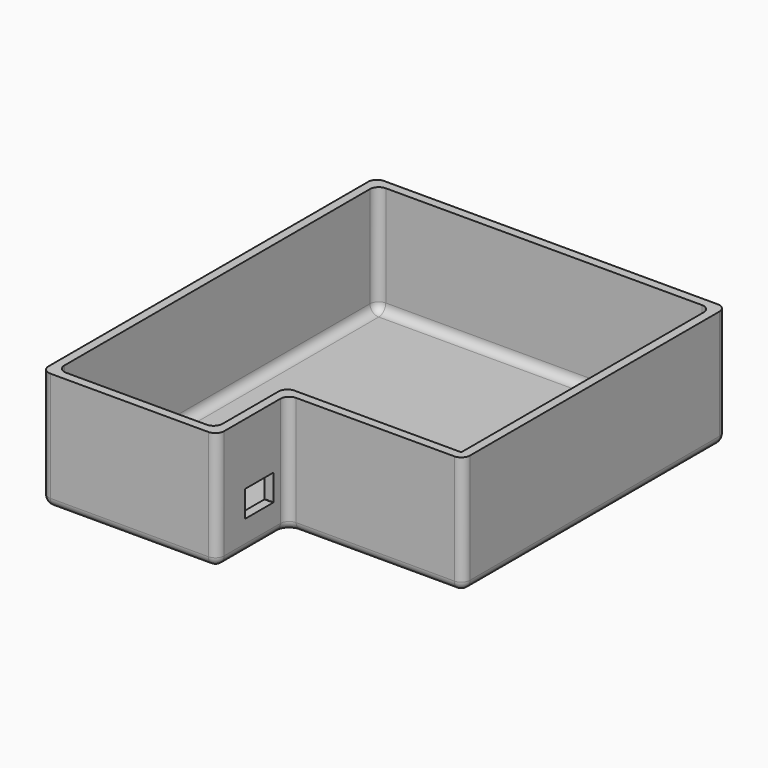
from build123d import *

# Parameters (mm, degrees)
F1_DEPTH = 34.29
F3_DEPTH = 31.75
F4_W     = 10.16
F4_H     = 7.62
F5_DEPTH = 2.54
F6_R     = 0.127
F7_R     = 2.54


with BuildPart() as f1:
    # F0 (on Top) → F1 (new body)
    with BuildSketch(Plane.XY):
        Polygon((50.8, 60.325), (-50.8, 60.325), (-50.8, -60.325), (0, -60.325), (0, -34.925), (50.8, -34.925), align=None)
    extrude(amount=F1_DEPTH)

    # F2 (on face) → F3 (cut)
    with BuildSketch(Plane.XY.offset(34.29)):
        Polygon((48.26, -32.385), (48.26, 57.785), (-48.26, 57.785), (-48.26, -57.785), (-2.54, -57.785), (-2.54, -32.385), align=None)
    extrude(amount=-F3_DEPTH, mode=Mode.SUBTRACT)

    # F4 (on face) → F5 (cut, through all)
    with BuildSketch(Plane.YZ):
        with Locations((-45.085, 12.7)):
            Rectangle(F4_W, F4_H)
    extrude(amount=-F5_DEPTH, mode=Mode.SUBTRACT)

    # F6
    f6_edges = [f1.edges().sort_by_distance(p)[0] for p in [
        (-1.27, -50.165, 16.51),
        (-1.27, -40.005, 16.51),
        (-1.27, -40.005, 8.89),
        (-1.27, -50.165, 8.89),
    ]]
    fillet(f6_edges, radius=F6_R)

    # F7
    f7_edges = [f1.edges().sort_by_distance(p)[0] for p in [
        (50.8, -34.925, 17.145),
        (0, -34.925, 17.145),
        (0, -60.325, 17.145),
        (-2.54, -32.385, 18.415),
        (-50.8, -60.325, 17.145),
        (-2.54, -57.785, 18.415),
        (-48.26, -57.785, 18.415),
        (50.8, 60.325, 17.145),
        (48.26, 57.785, 18.415),
        (-48.26, 57.785, 18.415),
        (-50.8, 60.325, 17.145),
        (0, 60.325, 0),
        (-50.8, 0, 0),
        (-25.4, -60.325, 0),
        (0, -47.625, 0),
        (25.4, -34.925, 0),
        (50.8, 12.7, 0),
        (48.26, 12.7, 2.54),
        (0, 57.785, 2.54),
        (-48.26, 0, 2.54),
        (-25.4, -57.785, 2.54),
        (-2.54, -45.085, 2.54),
        (22.86, -32.385, 2.54),
    ]]
    fillet(f7_edges, radius=F7_R)


solid = f1.part
